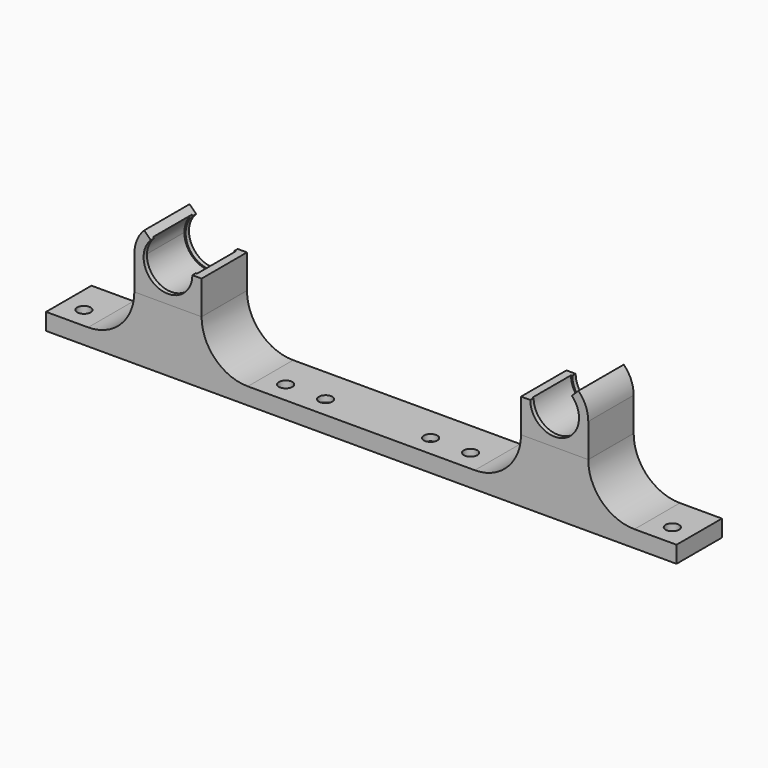
from build123d import *

# Parameters (mm, degrees)
PAD002_DEPTH            = 13.5
PAD003_DEPTH            = 1
PAD008_DEPTH            = 1
BODY001_PLACEMENT_ANGLE = -90.0000000001
SKETCH_W                = 150
SKETCH_H                = 13.5
SKETCH_R                = 1.6
PAD_DEPTH               = 4
SKETCH001_W             = 16
SKETCH001_H             = 13.5
PAD001_DEPTH            = 15
FILLET_R                = 10.99
POCKET_DEPTH            = 2.5
SKETCH015_R             = 1.6
POCKET001_DEPTH         = 15.001


with BuildPart() as clip_lm6uu:
    # Sketch003 → Pad002 (new body)
    with BuildSketch(Plane.YZ):
        with BuildLine():
            Line((-8, 0), (-8, -8))
            Line((-8, -8), (8, -8))
            Line((8, 0), (8, -8))
            Line((8, 0), (6.1, 0))
            ThreePointArc((-6.1, 0), (0, -6.1), (6.1, 0))
            ThreePointArc((-4.3133513652, 4.3133513652), (-5.6356651483, 2.3343689374), (-6.1, 0))
            Line((-5.6568542495, 5.6568542495), (-4.3133513652, 4.3133513652))
            ThreePointArc((-5.6568542495, 5.6568542495), (-7.3910362601, 3.0614674589), (-8, 0))
        make_face()
    extrude(amount=PAD002_DEPTH)

    # Sketch002 → Pad003 (join)
    with BuildSketch(Plane.YZ):
        with BuildLine():
            ThreePointArc((-4.1012193309, 4.1012193309), (-2.2195639077, -5.3585012886), (5.8, 0))
            Line((5.8, 0), (6.1, 0))
            ThreePointArc((-4.3133513652, 4.3133513652), (-2.3343689374, -5.6356651483), (6.1, 0))
            Line((-4.1012193309, 4.1012193309), (-4.3133513652, 4.3133513652))
        make_face()
    extrude(amount=PAD003_DEPTH)

    # Sketch013 (on Face5 of Pad003) → Pad008 (join)
    with BuildSketch(Plane.YZ.offset(13.5)):
        with BuildLine():
            ThreePointArc((-4.3133513652, 4.3133513652), (-2.3343689374, -5.6356651483), (6.1, 0))
            Line((5.8, 0), (6.1, 0))
            ThreePointArc((-4.1012193309, 4.1012193309), (-2.2195639077, -5.3585012886), (5.8, 0))
            Line((-4.3133513652, 4.3133513652), (-4.1012193309, 4.1012193309))
        make_face()
    extrude(amount=-PAD008_DEPTH)


with BuildPart() as clip_lm6uu_1:
    # Body001 placement: moved
    add(clip_lm6uu.part.moved(Location((-46, 8.5, 23))).rotate(Axis((-46, 8.5, 23), (0, 0, 1)), BODY001_PLACEMENT_ANGLE))


with BuildPart() as clip_lm6uu_mirror:
    # Part__Mirroring: instance of Clip_LM6UU
    add(clip_lm6uu_1.part.mirror(Plane(origin=(0, 0, 0), x_dir=(0, -1, 0), z_dir=(1, 0, 0))))


with BuildPart() as bedclamping_refined:
    # Sketch → Pad (new body)
    with BuildSketch(Plane.XY):
        with Locations((0, 1.75)):
            Rectangle(SKETCH_W, SKETCH_H)
        with Locations((-70, 0)):
            Circle(SKETCH_R, mode=Mode.SUBTRACT)
        with Locations((-22, 0)):
            Circle(SKETCH_R, mode=Mode.SUBTRACT)
        with Locations((22, 0)):
            Circle(SKETCH_R, mode=Mode.SUBTRACT)
        with Locations((70, 0)):
            Circle(SKETCH_R, mode=Mode.SUBTRACT)
    extrude(amount=PAD_DEPTH)

    # Sketch001 → Pad001 (join)
    with BuildSketch(Plane.XY):
        with Locations((-46, 1.75)):
            Rectangle(SKETCH001_W, SKETCH001_H)
        with Locations((46, 1.75)):
            Rectangle(SKETCH001_W, SKETCH001_H)
    extrude(amount=PAD001_DEPTH)

    # Fillet
    fillet_edges = [bedclamping_refined.edges().sort_by_distance(p)[0] for p in [
        (-54, 1.75, 4),
        (-38, 1.75, 4),
        (38, 1.75, 4),
        (54, 1.75, 4),
    ]]
    fillet(fillet_edges, radius=FILLET_R)

    # Sketch014 → Pocket (cut)
    with BuildSketch(Plane.XY):
        Polygon((-12.5, -3.2331615075), (-9.7, -1.6165807537), (-9.7, 1.6165807537), (-12.5, 3.2331615075), (-15.3, 1.6165807537), (-15.3, -1.6165807537), align=None)
        Polygon((12.5, -3.2331615075), (15.3, -1.6165807537), (15.3, 1.6165807537), (12.5, 3.2331615075), (9.7, 1.6165807537), (9.7, -1.6165807537), align=None)
    extrude(amount=POCKET_DEPTH, mode=Mode.SUBTRACT)

    # Sketch015 → Pocket001 (cut, through all)
    with BuildSketch(Plane.XY):
        with Locations((-12.5, 0)):
            Circle(SKETCH015_R)
        with Locations((12.5, 0)):
            Circle(SKETCH015_R)
    extrude(amount=POCKET001_DEPTH, mode=Mode.SUBTRACT)

    # Fusion: union Clip_LM6UU_Mirror, Clip_LM6UU
    add(clip_lm6uu_mirror.part)
    add(clip_lm6uu_1.part)


solid = bedclamping_refined.part
